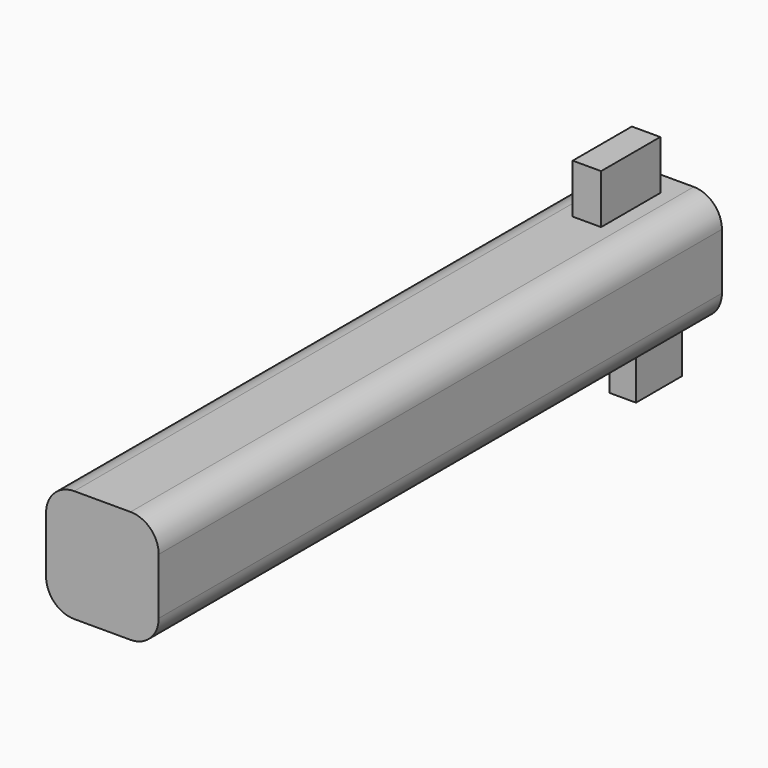
from build123d import *

# Parameters (mm, degrees)
F0_W     = 80
F0_H     = 500
F1_DEPTH = 80
F2_R     = 20
F3_W     = 20.159984
F3_H     = 52.525729
F4_DEPTH = 35
F5_W     = 18.923229
F5_H     = 40.931299
F6_DEPTH = 35


with BuildPart() as f1:
    # F0 (on Top) → F1 (new body)
    with BuildSketch(Plane.XY):
        Rectangle(F0_W, F0_H)
    extrude(amount=F1_DEPTH)

    # F2
    f2_edges = [f1.edges().sort_by_distance(p)[0] for p in [
        (-40, 0, 0),
        (40, 0, 0),
        (40, 0, 80),
        (-40, 0, 80),
    ]]
    fillet(f2_edges, radius=F2_R)

    # F3 (on face) → F4 (join)
    with BuildSketch(Plane.XY.offset(80)):
        with Locations((0, 206.395387)):
            Rectangle(F3_W, F3_H)
    extrude(amount=F4_DEPTH)

    # F5 (on face) → F6 (join)
    with BuildSketch(Plane(origin=(0, 0, 0), x_dir=(1, 0, 0), z_dir=(0, 0, -1))):
        with Locations((9.461614, -220.531561)):
            Rectangle(F5_W, F5_H)
    extrude(amount=F6_DEPTH)


solid = f1.part
